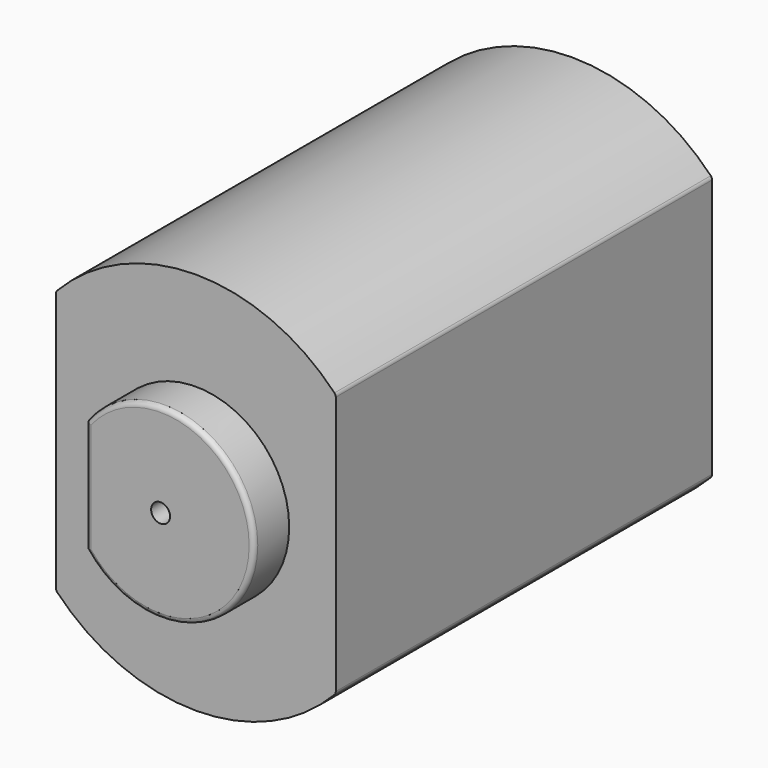
from build123d import *

# Parameters (mm, degrees)
F1_DEPTH = 24.87
F0_R     = 0.5
F2_DEPTH = 27.2
F3_DEPTH = 4.85
F4_R     = 0.254


with BuildPart() as f1:
    # F0 (on Front) → F1 (new body)
    with BuildSketch(Plane.XZ):
        with BuildLine():
            Line((-7.4, 6.95), (-7.4, -6.95))
            ThreePointArc((-7.4, -6.95), (0, -10.1519702521), (7.4, -6.95))
            Line((7.4, -6.95), (7.4, 6.95))
            ThreePointArc((7.4, 6.95), (0, 10.1519702521), (-7.4, 6.95))
        make_face()
        with BuildLine():
            ThreePointArc((-3.935, 2.9782545224), (4.935, 0), (-3.935, -2.9782545224))
            Line((-3.935, -2.9782545224), (-3.935, 2.9782545224))
        make_face(mode=Mode.SUBTRACT)
    extrude(amount=F1_DEPTH)

    # F0 (on Front) → F2 (join)
    with BuildSketch(Plane.XZ):
        with BuildLine():
            Line((-3.935, 2.9782545224), (-3.935, -2.9782545224))
            ThreePointArc((-3.935, -2.9782545224), (4.935, 0), (-3.935, 2.9782545224))
        make_face()
        Circle(F0_R, mode=Mode.SUBTRACT)
    extrude(amount=F2_DEPTH)

    # F0 (on Front) → F3 (join, symmetric)
    with BuildSketch(Plane.XZ):
        Circle(F0_R)
    extrude(amount=F3_DEPTH, both=True)

    # F4
    f4_edges = [f1.edges().sort_by_distance(p)[0] for p in [
        (-3.935, -27.2, 0),
        (4.935, -27.2, 0),
        (7.4, -12.435, -6.95),
        (7.4, -12.435, 6.95),
        (-7.4, -12.435, 6.95),
        (-7.4, -12.435, -6.95),
        (-0.5, 4.85, 0),
    ]]
    fillet(f4_edges, radius=F4_R)


solid = f1.part
